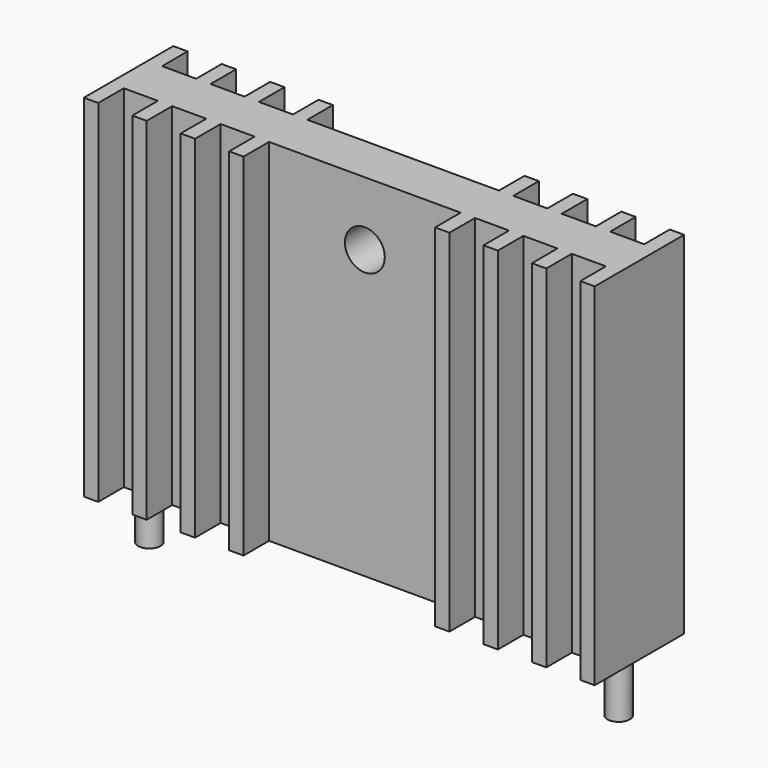
from build123d import *

# Parameters (mm, degrees)
SKETCH001_W   = 16
SKETCH001_H   = 3
SKETCH001_W_2 = 0.9
SKETCH001_H_2 = 7
PAD_DEPTH     = 22
SKETCH_R      = 0.7
PAD001_DEPTH  = 3.5
SKETCH002_R   = 1.25
HOLE_DEPTH    = 5.001


with BuildPart() as body001:
    # Sketch001 → Pad (new body)
    with BuildSketch(Plane.XY):
        with Locations((8, 0)):
            Rectangle(SKETCH001_W, SKETCH001_H)
        with Locations((15.55, 0)):
            Rectangle(SKETCH001_W_2, SKETCH001_H_2)
        with Locations((12.516667, 0)):
            Rectangle(SKETCH001_W_2, SKETCH001_H_2)
        with Locations((6.45, 0)):
            Rectangle(SKETCH001_W_2, SKETCH001_H_2)
        with Locations((9.483333, 0)):
            Rectangle(SKETCH001_W_2, SKETCH001_H_2)
    extrude(amount=PAD_DEPTH)


with BuildPart() as pin:
    # Sketch → Pad001 (new body)
    with BuildSketch(Plane.XY):
        with Locations((14.7, 0)):
            Circle(SKETCH_R)
    extrude(amount=-PAD001_DEPTH)

    # Boolean: union Body001
    add(body001.part)

    # Mirrored: Pin across YZ


with BuildPart() as pin_1:
    add(pin.part)
    add(pin.part.mirror(Plane.YZ))

    # Sketch002 (on Face65 of Mirrored) → Hole (cut, through all)
    with BuildSketch(Plane.XZ.offset(1.5)):
        with Locations((0, 18)):
            Circle(SKETCH002_R)
    extrude(amount=-HOLE_DEPTH, mode=Mode.SUBTRACT)


solid = pin_1.part
